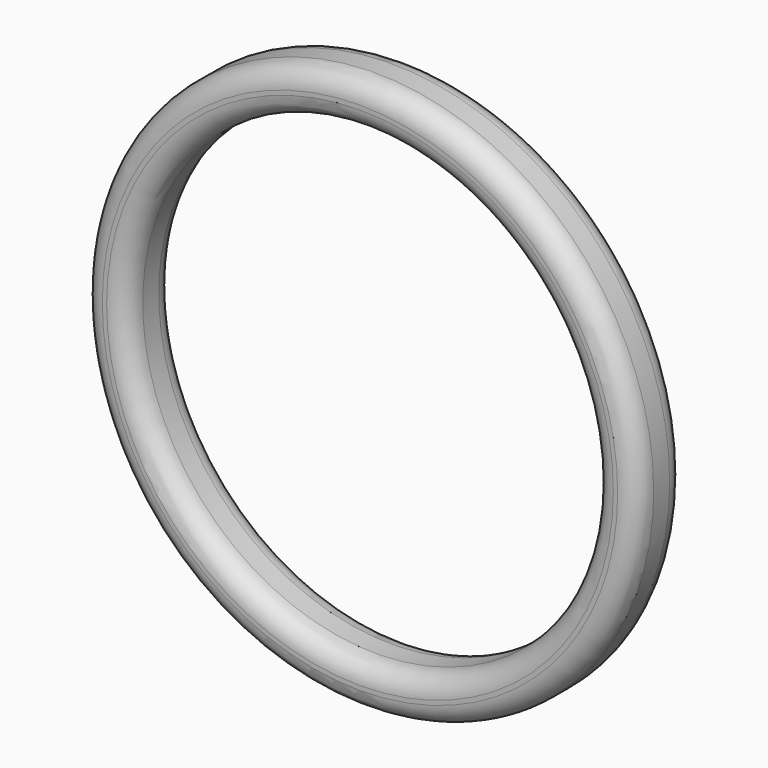
from build123d import *

# Parameters (mm, degrees)
F0_R     = 10.579835
F0_R_2   = 8.89
F1_DEPTH = 2.286
F2_R     = 0.762


with BuildPart() as f1:
    # F0 (on Front) → F1 (new body)
    with BuildSketch(Plane.XZ):
        with Locations((-48.006002, 40.996861)):
            Circle(F0_R)
        with Locations((-48.006002, 40.996861)):
            Circle(F0_R_2, mode=Mode.SUBTRACT)
    extrude(amount=F1_DEPTH)

    # F2
    f2_edges = [f1.edges().sort_by_distance(p)[0] for p in [
        (-58.585837, -2.286, 40.996861),
        (-58.585837, 0, 40.996861),
        (-56.896002, 0, 40.996861),
        (-56.896002, -2.286, 40.996861),
    ]]
    fillet(f2_edges, radius=F2_R)


solid = f1.part
